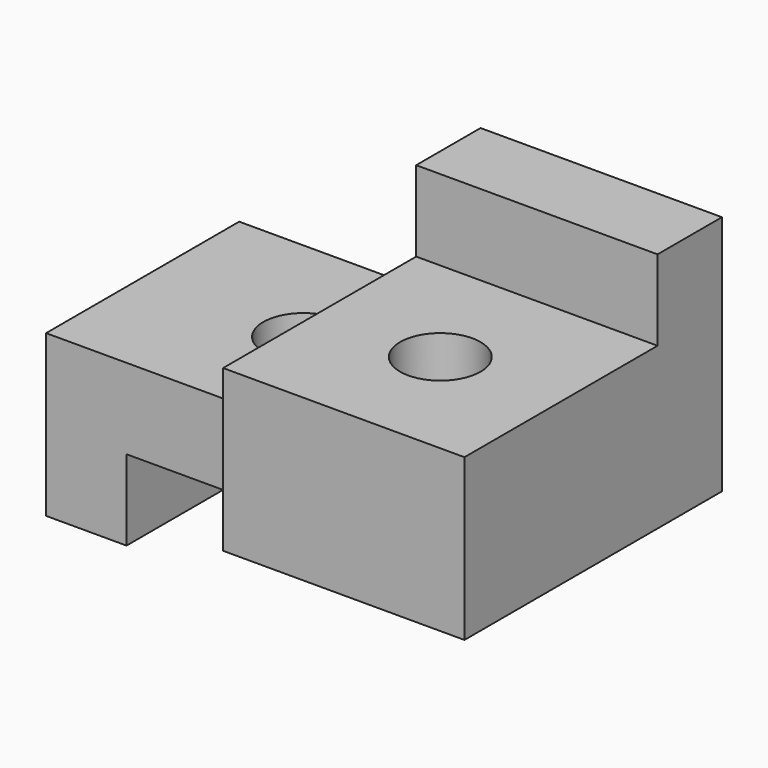
from build123d import *

# Parameters (mm, degrees)
F1_DEPTH  = 6.35
F2_W      = 6.35
F2_H      = 19.05
F3_DEPTH  = 6.35
F4_W      = 19.05
F4_H      = 25.4
F5_DEPTH  = 6.35
F6_W      = 19.05
F6_H      = 6.35
F7_DEPTH  = 6.35
F8_R      = 3.175
F9_DEPTH  = 12.7
F10_R     = 3.175
F11_DEPTH = 6.35


with BuildPart() as f1:
    # F0 (on Top) → F1 (new body)
    with BuildSketch(Plane.XY):
        Polygon((0, 6.35), (0, 0), (19.05, 0), (19.05, 25.4), (0, 25.4), (-19.05, 25.4), (-19.05, 6.35), align=None)
    extrude(amount=F1_DEPTH)

    # F2 (on face) → F3 (join)
    with BuildSketch(Plane(origin=(0, 0, 0), x_dir=(1, 0, 0), z_dir=(0, 0, -1))):
        with Locations((-15.875, -15.875)):
            Rectangle(F2_W, F2_H)
    extrude(amount=F3_DEPTH)

    # F4 (on face) → F5 (join)
    with BuildSketch(Plane.XY.offset(6.35)):
        with Locations((9.525, 12.7)):
            Rectangle(F4_W, F4_H)
    extrude(amount=F5_DEPTH)

    # F6 (on face) → F7 (join)
    with BuildSketch(Plane.XY.offset(12.7)):
        with Locations((9.525, 22.225)):
            Rectangle(F6_W, F6_H)
    extrude(amount=F7_DEPTH)

    # F8 (on face) → F9 (cut)
    with BuildSketch(Plane.XY.offset(12.7)):
        with Locations((9.525, 9.525)):
            Circle(F8_R)
    extrude(amount=-F9_DEPTH, mode=Mode.SUBTRACT)

    # F10 (on face) → F11 (cut)
    with BuildSketch(Plane.XY.offset(6.35)):
        with Locations((-6.35, 15.875)):
            Circle(F10_R)
    extrude(amount=-F11_DEPTH, mode=Mode.SUBTRACT)


solid = f1.part
